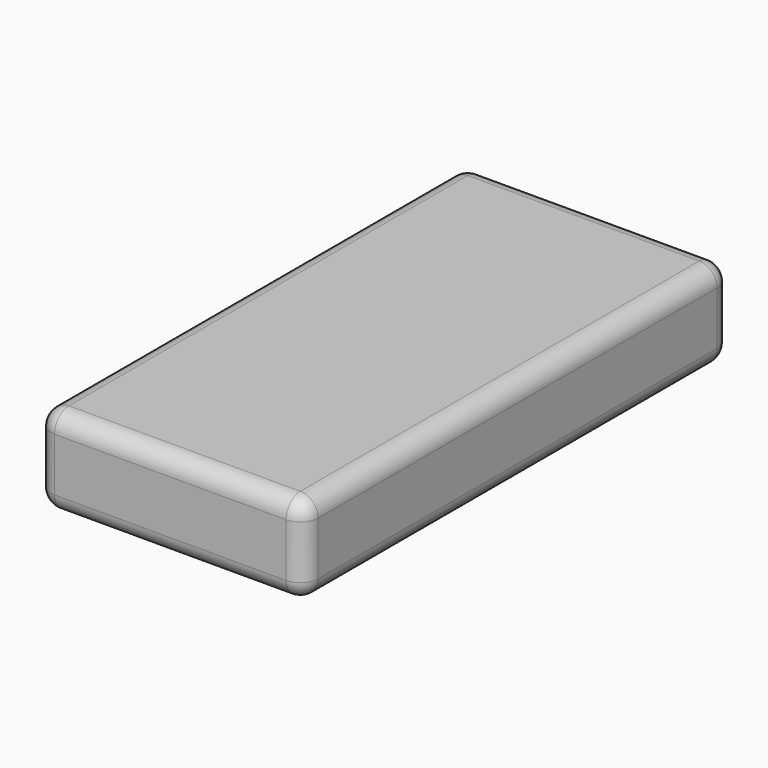
from build123d import *

# Parameters (mm, degrees)
BOX003_W     = 75
BOX003_H     = 150
BOX003_DEPTH = 25
FILLET_R     = 5
FILLET001_R  = 5
FILLET002_R  = 5
FILLET003_R  = 5
FILLET004_R  = 5
FILLET005_R  = 5


with BuildPart() as part:
    # Box003 → Box003 (new body)
    with BuildSketch(Plane(origin=(-37.5, -101, -29), x_dir=(1, 0, 0), z_dir=(0, 0, 1))):
        with Locations((37.5, 75)):
            Rectangle(BOX003_W, BOX003_H)
    extrude(amount=BOX003_DEPTH)

    # Fillet
    fillet_edges = [part.edges().sort_by_distance(p)[0] for p in [
        (-37.5, -26, -4),
    ]]
    fillet(fillet_edges, radius=FILLET_R)

    # Fillet001
    fillet001_edges = [part.edges().sort_by_distance(p)[0] for p in [
        (-37.5, -26, -29),
    ]]
    fillet(fillet001_edges, radius=FILLET001_R)

    # Fillet002
    fillet002_edges = [part.edges().sort_by_distance(p)[0] for p in [
        (37.5, -26, -29),
    ]]
    fillet(fillet002_edges, radius=FILLET002_R)

    # Fillet003
    fillet003_edges = [part.edges().sort_by_distance(p)[0] for p in [
        (37.5, -26, -4),
    ]]
    fillet(fillet003_edges, radius=FILLET003_R)

    # Fillet004
    fillet004_edges = [part.edges().sort_by_distance(p)[0] for p in [
        (0, 49, -29),
    ]]
    fillet(fillet004_edges, radius=FILLET004_R)

    # Fillet005
    fillet005_edges = [part.edges().sort_by_distance(p)[0] for p in [
        (37.5, -101, -16.5),
        (0, -101, -4),
        (0, -101, -29),
        (-37.5, -101, -16.5),
    ]]
    fillet(fillet005_edges, radius=FILLET005_R)


with BuildPart() as part_1:
    # Fillet005 placement: moved
    add(part.part.moved(Location((0, 0, -93.5))))


solid = part_1.part
